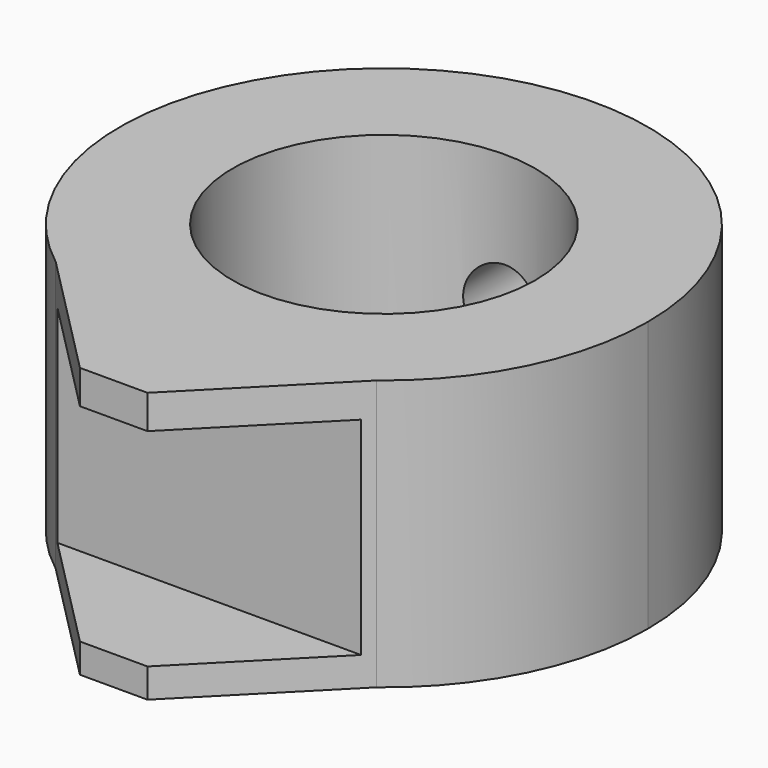
from build123d import *

# Parameters (mm, degrees)
F0_R     = 6.725
F1_DEPTH = 12
F4_DEPTH = 10
F5_W     = 3
F5_H     = 9.2
F5_W_2   = 6.6256758422
F6_DEPTH = 5.3


with BuildPart() as f1:
    # F0 (on Top) → F1 (new body)
    with BuildSketch(Plane.XY):
        with BuildLine():
            ThreePointArc((7.1251998651, -9.3116675135), (10.5123402109, -5.1929113502), (11.725, 0))
            ThreePointArc((11.725, 0), (-5.1929113502, 10.5123402109), (-7.1251998651, -9.3116675135))
            ThreePointArc((-7.1251998651, -9.3116675135), (0, -11.725), (7.1251998651, -9.3116675135))
        make_face()
        Circle(F0_R, mode=Mode.SUBTRACT)
        with BuildLine():
            ThreePointArc((7.1251998651, -9.3116675135), (0, -11.725), (-7.1251998651, -9.3116675135))
            Line((-7.1251998651, -9.3116675135), (-1.5, -15))
            Line((-1.5, -15), (0, -15))
            Line((0, -15), (1.5, -15))
            Line((1.5, -15), (7.1251998651, -9.3116675135))
        make_face()
    extrude(amount=F1_DEPTH)

    # F3 (on offset) → F4 (cut)
    with BuildSketch(Plane.XZ.offset(-12)):
        with BuildLine():
            ThreePointArc((0, 7.6875), (-1.6875, 6), (0, 4.3125))
            Line((0, 4.3125), (0, 7.6875))
        make_face()
        with BuildLine():
            Line((0, 7.6875), (0, 4.3125))
            ThreePointArc((0, 4.3125), (1.1932426933, 4.8067573067), (1.6875, 6))
            ThreePointArc((1.6875, 6), (1.1932426933, 7.1932426933), (0, 7.6875))
        make_face()
    extrude(amount=F4_DEPTH, mode=Mode.SUBTRACT)

    # F5 (on face) → F6 (cut)
    with BuildSketch(Plane.XZ.offset(15)):
        with Locations((0, 5.9)):
            Rectangle(F5_W, F5_H)
        with Locations((-4.8128379211, 5.9)):
            Rectangle(F5_W_2, F5_H)
        with Locations((4.8128379211, 5.9)):
            Rectangle(F5_W_2, F5_H)
    extrude(amount=-F6_DEPTH, mode=Mode.SUBTRACT)


solid = f1.part
